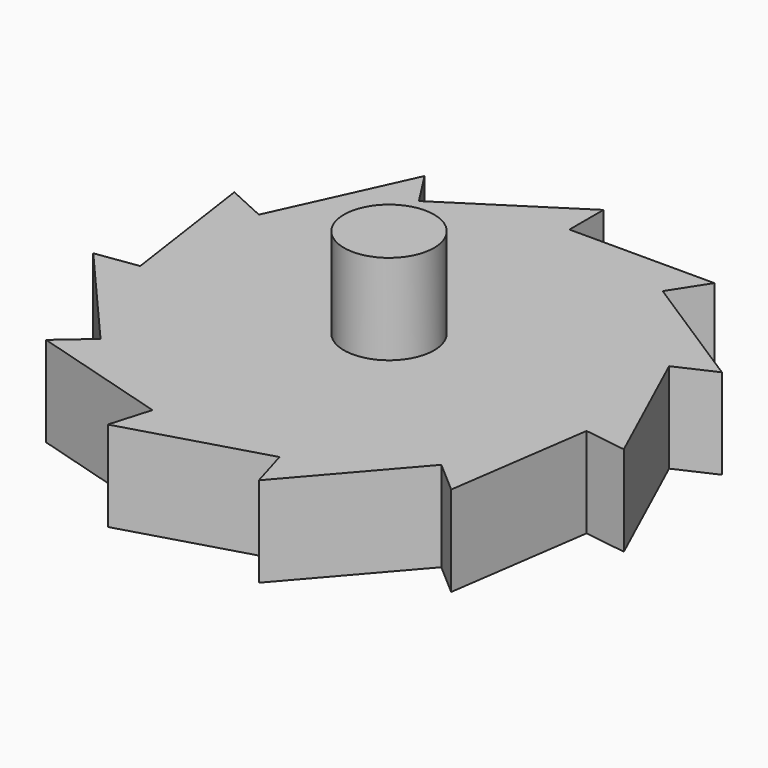
from build123d import *

# Parameters (mm, degrees)
F0_R     = 5
F1_DEPTH = 10
F2_DEPTH = 20


with BuildPart() as f1:
    # F0 (on Top) → F1 (new body)
    with BuildSketch(Plane.XY):
        Polygon((22.7408, 10.385375), (27.032041, 12.345119), (13.51602, 21.031338), (16.066524, 25), (0, 25), (0, 29.717557), (-13.51602, 21.031338), (-16.066524, 25), (-22.7408, 10.385375), (-27.032041, 12.345119), (-24.745536, -3.557871), (-29.415075, -4.229249), (-18.893739, -16.371518), (-22.459031, -19.460861), (-7.043314, -23.987324), (-8.372403, -28.513787), (7.043314, -23.987324), (8.372403, -28.513787), (18.893739, -16.371518), (22.459031, -19.460861), (24.745536, -3.557871), (29.415075, -4.229249), align=None)
        Circle(F0_R, mode=Mode.SUBTRACT)
    extrude(amount=F1_DEPTH)

    # F0 (on Top) → F2 (join)
    with BuildSketch(Plane.XY):
        Circle(F0_R)
    extrude(amount=F2_DEPTH)


solid = f1.part
